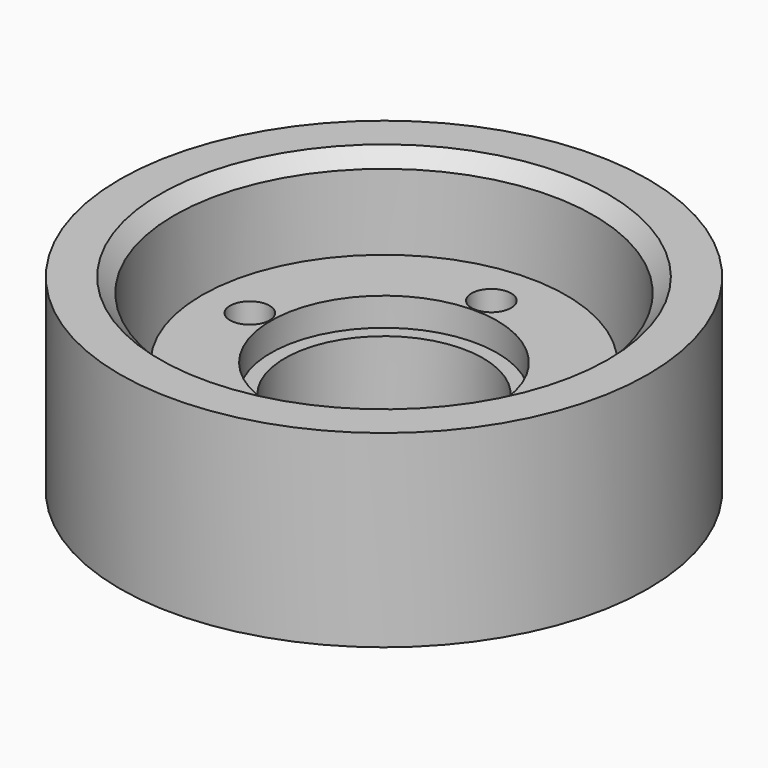
from build123d import *

# Parameters (mm, degrees)
F6_R      = 6
F6_R_2    = 5.25
F7_DEPTH  = 4.5
F6_R_3    = 9.6625
F8_DEPTH  = 6
F9_D      = 2.1
F10_R     = 14
F10_R_2   = 11.125
F10_R_3   = 8.75
F11_DEPTH = 3
F12_R     = 14
F12_R_2   = 11.125
F13_DEPTH = 10
F14_SIZE  = 0.75


with BuildPart() as f7:
    # F6 (on Top) → F7 (new body)
    with BuildSketch(Plane.XY):
        Circle(F6_R)
        Circle(F6_R_2, mode=Mode.SUBTRACT)
    extrude(amount=F7_DEPTH)

    # F6 (on Top) → F8 (join)
    with BuildSketch(Plane.XY):
        Circle(F6_R_3)
        Circle(F6_R, mode=Mode.SUBTRACT)
    extrude(amount=F8_DEPTH)

    # F9 (through all)
    with Locations(Plane(origin=(0, 0, 0), x_dir=(1, 0, 0), z_dir=(0, 0, -1))):
        with Locations((0, -7.1125), (7.1125, 0), (-7.1125, 0), (0, 7.1125)):
            Hole(F9_D / 2)


with BuildPart() as f11:
    # F10 (on Top) → F11 (new body)
    with BuildSketch(Plane.XY):
        Circle(F10_R)
        Circle(F10_R_2, mode=Mode.SUBTRACT)
        Circle(F10_R_2)
        Circle(F10_R_3, mode=Mode.SUBTRACT)
    extrude(amount=F11_DEPTH)

    # F12 (on face) → F13 (join)
    with BuildSketch(Plane.XY):
        Circle(F12_R)
        Circle(F12_R_2, mode=Mode.SUBTRACT)
    extrude(amount=F13_DEPTH)

    # F14
    f14_edges = [f11.edges().sort_by_distance(p)[0] for p in [
        (-11.125, 0, 10),
    ]]
    chamfer(f14_edges, length=F14_SIZE)


solid = Compound([f7.part, f11.part])
